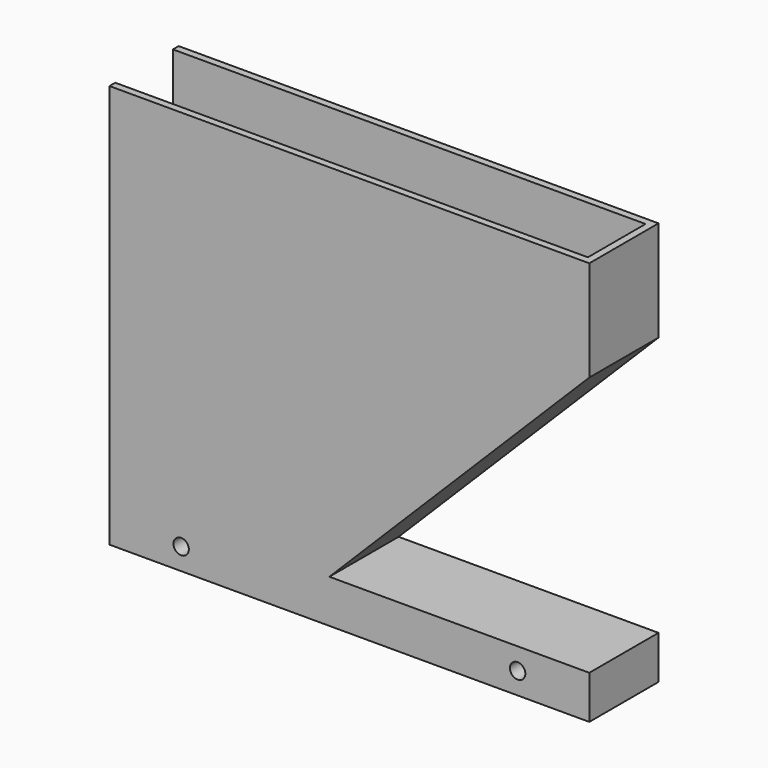
from build123d import *

# Parameters (mm, degrees)
SKETCH_W        = 99.825
SKETCH_H        = 84
PAD_DEPTH       = 9
POCKET_DEPTH    = 7.5
POCKET001_DEPTH = 9
SKETCH003_R     = 1.6
POCKET002_DEPTH = 20
SKETCH006_W     = 15
SKETCH006_H     = 45
POCKET003_DEPTH = 5


with BuildPart() as pocket001:
    # Sketch → Pad (new body)
    with BuildSketch(Plane.XZ):
        Rectangle(SKETCH_W, SKETCH_H)
    extrude(amount=PAD_DEPTH)

    # Sketch001 → Pocket (cut)
    with BuildSketch(Plane.XZ.offset(9)):
        with BuildLine():
            Line((-48.4125, -33), (-48.4125, 42))
            Line((-48.4125, 42), (48.412084, 42))
            ThreePointArc((-48.4125, -33), (12.824744, -12.056942), (48.412084, 42))
        make_face()
    extrude(amount=-POCKET_DEPTH, mode=Mode.SUBTRACT)

    # Sketch002 → Pocket001 (cut)
    with BuildSketch(Plane.XZ.offset(9)):
        Polygon((-4.162717, -33), (49.9125, -33), (49.9125, 21.075217), align=None)
    extrude(amount=-POCKET001_DEPTH, mode=Mode.SUBTRACT)


with BuildPart() as pocket003:
    # Part__Mirroring: instance of Pocket001
    add(pocket001.part.mirror(Plane(origin=(0, 0, 0), x_dir=(1, 0, 0), z_dir=(0, 1, 0))))


with BuildPart() as pocket003_1:
    # Part__Mirroring placement: moved
    add(pocket003.part.moved(Location((0, -18, 0))))

    # Fusion: union Pocket001
    add(pocket001.part)

    # Sketch003 → Pocket002 (cut)
    with BuildSketch(Plane.XZ.offset(18)):
        with Locations((-35, -37.5)):
            Circle(SKETCH003_R)
        with Locations((35, -37.5)):
            Circle(SKETCH003_R)
    extrude(amount=-POCKET002_DEPTH, mode=Mode.SUBTRACT)

    # Sketch006 → Pocket003 (cut)
    with BuildSketch(Plane(origin=(-49.9125, 0, 0), x_dir=(0, -1, 0), z_dir=(-1, 0, 0))):
        with Locations((9, 19.5)):
            Rectangle(SKETCH006_W, SKETCH006_H)
    extrude(amount=-POCKET003_DEPTH, mode=Mode.SUBTRACT)


solid = pocket003_1.part
